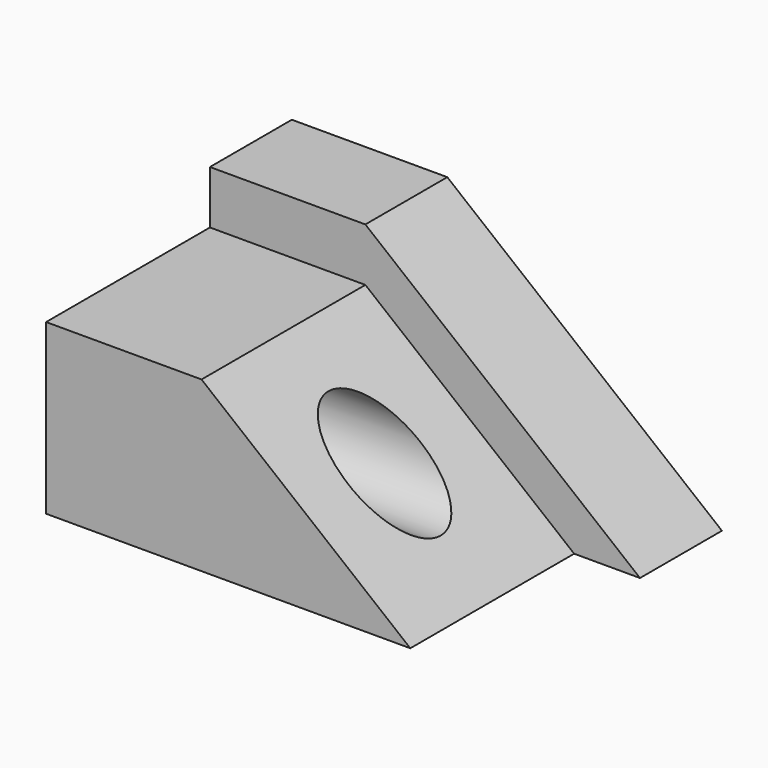
from build123d import *

# Parameters (mm, degrees)
F1_DEPTH = 76.2
F2_DEPTH = 25.4
F3_R     = 11.245644
F4_DEPTH = 152.4


with BuildPart() as f1:
    # F0 (on Front) → F1 (new body)
    with BuildSketch(Plane.XZ):
        Polygon((0, 41.862), (0, 0), (90.346729, 0), (38.561046, 41.862), align=None)
    extrude(amount=F1_DEPTH)

    # F0 (on Front) → F2 (join)
    with BuildSketch(Plane.XZ):
        Polygon((0, 41.862), (0, 0), (90.346729, 0), (38.561046, 41.862), align=None)
        Polygon((0, 55.065785), (0, 41.862), (38.561046, 41.862), (90.346729, 0), (106.680565, 0), (38.561046, 55.065785), align=None)
    extrude(amount=F2_DEPTH)

    # F3 (on Right) → F4 (cut)
    with BuildSketch(Plane.YZ):
        with Locations((-50.974112, 21.47734)):
            Circle(F3_R)
    extrude(amount=F4_DEPTH, mode=Mode.SUBTRACT)


solid = f1.part
